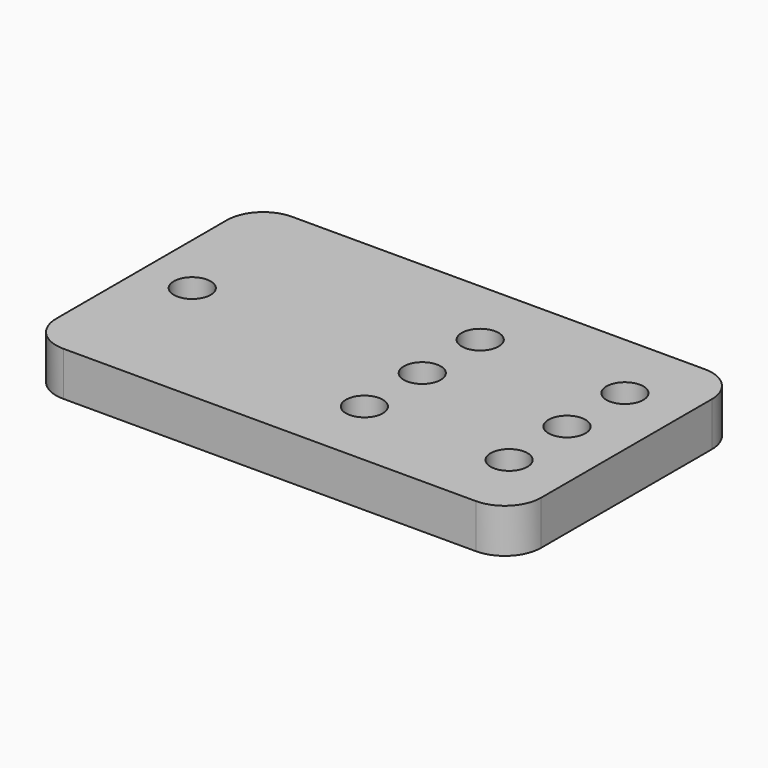
from build123d import *

# Parameters (mm, degrees)
F0_R     = 2.55
F1_DEPTH = 6.1


with BuildPart() as f1:
    # F0 (on Top) → F1 (new body)
    with BuildSketch(Plane.XY):
        with BuildLine():
            Line((28.5, 19.75), (-28.5, 19.75))
            ThreePointArc((-28.5, 19.75), (-32.035534, 18.285534), (-33.5, 14.75))
            Line((-33.5, 14.75), (-33.5, -14.75))
            ThreePointArc((-33.5, -14.75), (-32.035534, -18.285534), (-28.5, -19.75))
            Line((-28.5, -19.75), (28.5, -19.75))
            ThreePointArc((28.5, -19.75), (32.035534, -18.285534), (33.5, -14.75))
            Line((33.5, -14.75), (33.5, 14.75))
            ThreePointArc((33.5, 14.75), (32.035534, 18.285534), (28.5, 19.75))
        make_face()
        with Locations((5.29, -10)):
            Circle(F0_R, mode=Mode.SUBTRACT)
        with Locations((25.29, -10)):
            Circle(F0_R, mode=Mode.SUBTRACT)
        with Locations((-26.5, 0)):
            Circle(F0_R, mode=Mode.SUBTRACT)
        with Locations((5.29, 0)):
            Circle(F0_R, mode=Mode.SUBTRACT)
        with Locations((25.29, 0)):
            Circle(F0_R, mode=Mode.SUBTRACT)
        with Locations((5.29, 10)):
            Circle(F0_R, mode=Mode.SUBTRACT)
        with Locations((25.29, 10)):
            Circle(F0_R, mode=Mode.SUBTRACT)
    extrude(amount=F1_DEPTH)


solid = f1.part
